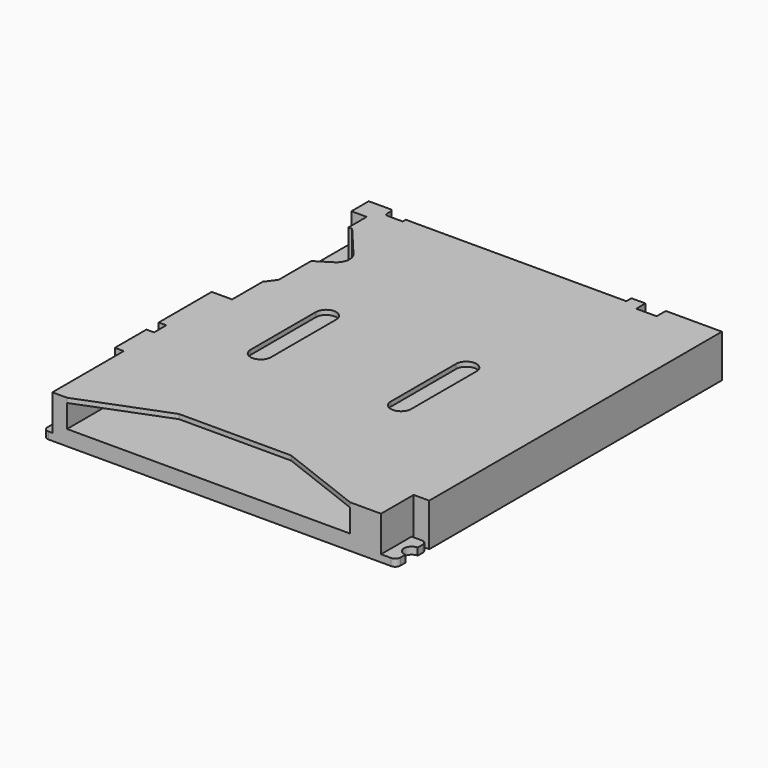
from build123d import *

# Parameters (mm, degrees)
SKETCH015_W     = 0.3
SKETCH015_H     = 0.2
SKETCH013_W     = 0.4
SKETCH013_H     = 0.2
ARRAY_X_COUNT   = 8
ARRAY_X_PITCH   = 1.1
SKETCH011_W     = 0.35
SKETCH011_H     = 0.4
PAD002_DEPTH    = 0.4
SKETCH_W        = 13.85
SKETCH_H        = 15.95
PAD_DEPTH       = 1.68
SKETCH001_W     = 11.1
SKETCH001_H     = 0.9
POCKET_DEPTH    = 14.2
SKETCH002_W     = 0.3
SKETCH002_H     = 0.6
POCKET001_DEPTH = 1.681
SKETCH003_W     = 9.9
SKETCH003_H     = 0.85
POCKET002_DEPTH = 1
POCKET003_DEPTH = 0.18
POCKET004_DEPTH = 1.681
SKETCH008_W     = 0.5
SKETCH008_H     = 2.4
SKETCH008_W_2   = 1
SKETCH008_H_2   = 1.5
SKETCH008_W_3   = 0.6
SKETCH008_H_3   = 1
POCKET005_DEPTH = 1.4
POCKET006_DEPTH = 1.681
SKETCH018_W     = 0.32
SKETCH018_H     = 0.8
POCKET007_DEPTH = 1.4
POCKET008_DEPTH = 1.1


with BuildPart() as pin9_sweep:
    # Sweep001: sweep along a path in Sketch012
    with BuildLine(Plane.YZ) as sweep001_path:
        Line((-0.85, 0.4), (-0.7, 0.4))
        ThreePointArc((-0.7, 0.4), (-0.629289, 0.370711), (-0.6, 0.3))
        ThreePointArc((-0.6, 0.3), (-0.512132, 0.087868), (-0.3, 0))
        Line((-0.3, 0), (0, 0))
    # Sketch015 → Sweep001 (sweep)
    with BuildSketch(Plane.XZ):
        with Locations((-5.775, 0.1)):
            Rectangle(SKETCH015_W, SKETCH015_H)
    sweep(path=sweep001_path.line)


with BuildPart() as pins_array:
    # Sweep: sweep along a path in Sketch012
    with BuildLine(Plane.YZ) as sweep_path:
        Line((-0.85, 0.4), (-0.7, 0.4))
        ThreePointArc((-0.7, 0.4), (-0.629289, 0.370711), (-0.6, 0.3))
        ThreePointArc((-0.6, 0.3), (-0.512132, 0.087868), (-0.3, 0))
        Line((-0.3, 0), (0, 0))
    # Sketch013 → Sweep (sweep)
    with BuildSketch(Plane.XZ):
        with Locations((2.775, 0.1)):
            Rectangle(SKETCH013_W, SKETCH013_H)
    sweep(path=sweep_path.line)

    # Array X: Pins_Array ×8


with BuildPart() as pins_array_1:
    add(pins_array.part)
    with Locations(*[(-i * ARRAY_X_PITCH, 0, 0) for i in range(1, ARRAY_X_COUNT)]):
        add(pins_array.part)


with BuildPart() as obj1:
    # Sketch011 → Pad002 (new body)
    with BuildSketch(Plane.XY):
        with Locations((-6.75, -10.6)):
            Rectangle(SKETCH011_W, SKETCH011_H)
    extrude(amount=PAD002_DEPTH)


with BuildPart() as fusion:
    # Sketch → Pad (new body)
    with BuildSketch(Plane.XY):
        with Locations((0, -7.975)):
            Rectangle(SKETCH_W, SKETCH_H)
    extrude(amount=PAD_DEPTH)

    # Sketch001 → Pocket (cut)
    with BuildSketch(Plane.XZ.offset(15.95)):
        with Locations((-0.45, 1.05)):
            Rectangle(SKETCH001_W, SKETCH001_H)
    extrude(amount=-POCKET_DEPTH, mode=Mode.SUBTRACT)

    # Sketch002 → Pocket001 (cut, through all)
    with BuildSketch(Plane.XY.offset(1.68)):
        with BuildLine():
            Line((-6.075, 0), (3.375, 0))
            Line((3.375, 0), (3.375, -0.25))
            Line((3.375, -0.25), (-5.275, -0.25))
            Line((-5.275, -0.25), (-5.275, -0.4))
            Line((-5.875, -0.4), (-5.275, -0.4))
            ThreePointArc((-5.975, -0.3), (-5.945711, -0.370711), (-5.875, -0.4))
            Line((-5.975, -0.1), (-5.975, -0.3))
            ThreePointArc((-5.975, -0.1), (-6.004289, -0.029289), (-6.075, 0))
        make_face()
        with Locations((-6.775, -10.6)):
            Rectangle(SKETCH002_W, SKETCH002_H)
    extrude(amount=-POCKET001_DEPTH, mode=Mode.SUBTRACT)

    # Sketch003 → Pocket002 (cut)
    with BuildSketch(Plane(origin=(0, 0, 0), x_dir=(1, 0, 0), z_dir=(0, 0, -1))):
        with Locations((-1.575, 0.425)):
            Rectangle(SKETCH003_W, SKETCH003_H)
    extrude(amount=-POCKET002_DEPTH, mode=Mode.SUBTRACT)

    # Sketch004 → Pocket003 (cut)
    with BuildSketch(Plane.XY.offset(1.68)):
        Polygon((-6, -15.95), (5.1, -15.95), (1.75, -14.65), (-2.65, -14.65), align=None)
        with BuildLine():
            ThreePointArc((-2.8, -6.749999), (-3.2, -6.35), (-3.6, -6.75))
            Line((-3.6, -6.75), (-3.6, -9.949999))
            ThreePointArc((-3.6, -9.949999), (-3.2, -10.349999), (-2.8, -9.949999))
            Line((-2.8, -6.749999), (-2.8, -9.949999))
        make_face()
        with BuildLine():
            ThreePointArc((2.7, -6.75), (2.3, -6.35), (1.9, -6.75))
            Line((1.9, -6.75), (1.9, -9.95))
            ThreePointArc((1.9, -9.95), (2.3, -10.35), (2.7, -9.95))
            Line((2.7, -6.75), (2.7, -9.95))
        make_face()
    extrude(amount=-POCKET003_DEPTH, mode=Mode.SUBTRACT)

    # Sketch007 → Pocket004 (cut, through all)
    with BuildSketch(Plane.XY.offset(1.68)):
        with BuildLine():
            ThreePointArc((6.915, -14.899998), (6.615, -15.199998), (6.915, -15.499998))
            Line((6.915, -15.499998), (6.915, -15.749997))
            ThreePointArc((6.715, -15.95), (6.856423, -15.89142), (6.915, -15.749997))
            Line((6.715, -15.95), (6.715, -16.45))
            Line((6.715, -16.45), (7.415, -16.45))
            Line((7.415, -16.45), (7.415, -14.35))
            Line((7.415, -14.35), (6.315, -14.35))
            Line((6.315, -14.35), (6.315, -14.45))
            Line((6.315, -14.45), (6.715, -14.45))
            ThreePointArc((6.915, -14.65), (6.856421, -14.508579), (6.715, -14.45))
            Line((6.915, -14.65), (6.915, -14.899998))
        make_face()
        with BuildLine():
            ThreePointArc((-6.925, -14.95), (-6.725, -14.75), (-6.925, -14.55))
            Line((-6.925, -14.35), (-6.925, -14.55))
            ThreePointArc((-6.925, -14.35), (-6.725, -14.15), (-6.925, -13.95))
            Line((-6.925, -13.75), (-6.925, -13.95))
            ThreePointArc((-6.725, -13.55), (-6.866421, -13.608579), (-6.925, -13.75))
            Line((-6.725, -13.55), (-6.575, -13.55))
            Line((-6.575, -13.55), (-6.575, -12.45))
            Line((-6.575, -12.45), (-7.725, -12.45))
            Line((-7.725, -12.45), (-7.725, -16.45))
            Line((-7.725, -16.45), (-6.725, -16.45))
            Line((-6.725, -16.45), (-6.725, -15.95))
            ThreePointArc((-6.925, -15.75), (-6.866421, -15.891421), (-6.725, -15.95))
            Line((-6.925, -15.55), (-6.925, -15.75))
            ThreePointArc((-6.925, -15.55), (-6.725, -15.35), (-6.925, -15.15))
            Line((-6.925, -14.95), (-6.925, -15.15))
        make_face()
        with BuildLine():
            Line((3.925, -0.45), (3.925, 1))
            Line((3.925, 1), (4.725, 1))
            Line((4.725, 1), (4.725, -0.45))
            Line((4.725, -0.45), (4.625, -0.45))
            Line((4.625, -0.45), (4.625, -0.2))
            ThreePointArc((4.625, -0.2), (4.566421, -0.058579), (4.425, 0))
            Line((4.225, 0), (4.425, 0))
            ThreePointArc((4.225, 0), (4.083579, -0.058579), (4.025, -0.2))
            Line((4.025, -0.45), (4.025, -0.2))
            Line((3.925, -0.45), (4.025, -0.45))
        make_face()
    extrude(amount=-POCKET004_DEPTH, mode=Mode.SUBTRACT)

    # Sketch008 → Pocket005 (cut)
    with BuildSketch(Plane.XY.offset(1.68)):
        with Locations((-6.825, -14.75)):
            Rectangle(SKETCH008_W, SKETCH008_H)
        with Locations((6.815, -15.2)):
            Rectangle(SKETCH008_W_2, SKETCH008_H_2)
        with Locations((4.325, 0.05)):
            Rectangle(SKETCH008_W_3, SKETCH008_H_3)
    extrude(amount=-POCKET005_DEPTH, mode=Mode.SUBTRACT)

    # Sketch017 → Pocket006 (cut, through all)
    with BuildSketch(Plane.XY.offset(1.68)):
        with BuildLine():
            Line((-6.775, -4.95), (-6.525, -4.95))
            Line((-6.525, -4.95), (-6.325, -4.75))
            Line((-6.325, -4.75), (-6.325, -4.05))
            Line((-6.325, -4.05), (-6.525, -3.85))
            Line((-6.525, -3.85), (-6.775, -3.85))
            Line((-6.775, -3.85), (-6.775, -4))
            Line((-6.775, -4), (-6.674998, -4))
            ThreePointArc((-6.475, -4.2), (-6.533578, -4.058579), (-6.674998, -4))
            Line((-6.475, -4.2), (-6.475, -4.6))
            ThreePointArc((-6.675, -4.8), (-6.533579, -4.741421), (-6.475, -4.6))
            Line((-6.775, -4.8), (-6.675, -4.8))
            Line((-6.775, -4.8), (-6.775, -4.95))
        make_face()
    extrude(amount=-POCKET006_DEPTH, mode=Mode.SUBTRACT)

    # Sketch018 → Pocket007 (cut)
    with BuildSketch(Plane.XY.offset(1.68)):
        with Locations((-6.615, -4.4)):
            Rectangle(SKETCH018_W, SKETCH018_H)
    extrude(amount=-POCKET007_DEPTH, mode=Mode.SUBTRACT)

    # Sketch019 → Pocket008 (cut)
    with BuildSketch(Plane.XY.offset(1.68)):
        with BuildLine():
            Line((-6.925, -0.85), (-6.325, -0.85))
            Line((-6.325, -0.85), (-6.325, -1.75))
            Line((-6.325, -1.75), (-6.175, -1.75))
            Line((-6.175, -1.75), (-5.098916, -3.032427))
            ThreePointArc((-5.225, -3.825914), (-4.981031, -3.45792), (-5.098916, -3.032427))
            Line((-5.825, -4.2), (-5.225, -3.825914))
            Line((-5.825, -5.8), (-5.825, -4.2))
            Line((-6.125, -6.2), (-5.825, -5.8))
            Line((-6.125, -7.7), (-6.125, -6.2))
            Line((-6.925, -7.7), (-6.125, -7.7))
            Line((-7.925, -7.7), (-6.925, -7.7))
            Line((-7.925, -0.85), (-7.925, -7.7))
            Line((-6.925, -0.85), (-7.925, -0.85))
        make_face()
    extrude(amount=-POCKET008_DEPTH, mode=Mode.SUBTRACT)

    # Fusion: union Pin9_Sweep, Pins_Array, obj1
    add(pin9_sweep.part)
    add(pins_array_1.part)
    add(obj1.part)


solid = fusion.part
